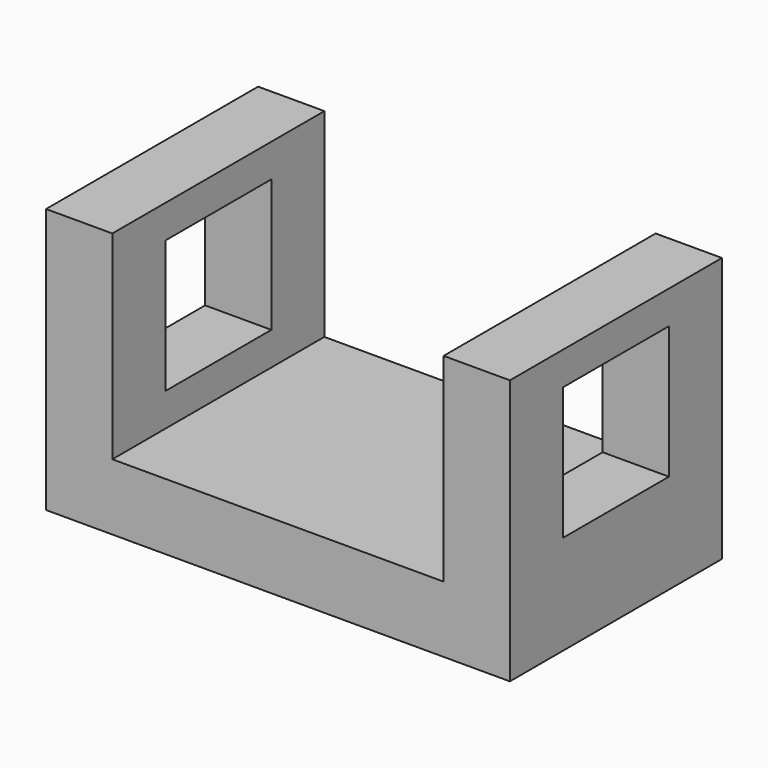
from build123d import *

# Parameters (mm, degrees)
F1_DEPTH = 50.8
F2_W     = 25.4
F2_H     = 25.4
F3_DEPTH = 12.7
F4_W     = 25.4
F4_H     = 25.4
F5_DEPTH = 12.7


with BuildPart() as f1:
    # F0 (on Front) → F1 (new body)
    with BuildSketch(Plane.XZ):
        Polygon((-58.122805, 27.657573), (-70.822805, 27.657573), (-70.822805, -23.142427), (18.077195, -23.142427), (18.077195, 27.657573), (5.377195, 27.657573), (5.377195, -10.442427), (-58.122805, -10.442427), align=None)
    extrude(amount=F1_DEPTH)

    # F2 (on face) → F3 (cut)
    with BuildSketch(Plane.YZ.offset(18.077195)):
        with Locations((-25.4, 8.607573)):
            Rectangle(F2_W, F2_H)
    extrude(amount=-F3_DEPTH, mode=Mode.SUBTRACT)

    # F4 (on face) → F5 (cut)
    with BuildSketch(Plane(origin=(-70.822805, 0, 0), x_dir=(0, -1, 0), z_dir=(-1, 0, 0))):
        with Locations((25.4, 8.607573)):
            Rectangle(F4_W, F4_H)
    extrude(amount=-F5_DEPTH, mode=Mode.SUBTRACT)


solid = f1.part
